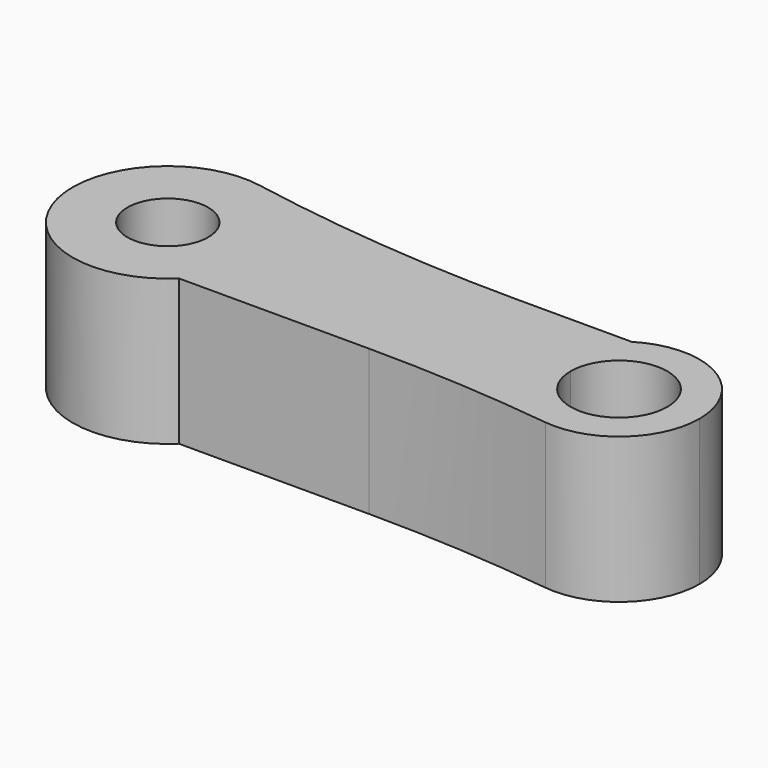
from build123d import *

# Parameters (mm, degrees)
F0_R     = 25.444736
F1_DEPTH = 91.702167
F2_R     = 959.987855


with BuildPart() as f1:
    # F0 (on Top) → F1 (new body)
    with BuildSketch(Plane.XY):
        with BuildLine():
            ThreePointArc((41.567442, 43.200706), (55.16418, 23.474804), (59.951257, 0))
            Line((59.951257, 0), (233.576013, 0))
            ThreePointArc((233.576013, 0), (240.029875, 24.751712), (257.748065, 43.200706))
            Line((257.748065, 43.200706), (41.567442, 43.200706))
        make_face()
        with BuildLine():
            ThreePointArc((257.748065, 43.200706), (240.029875, 24.751712), (233.576013, 0))
            ThreePointArc((233.576013, 0), (240.029875, -24.751712), (257.748065, -43.200706))
            ThreePointArc((257.748065, -43.200706), (309.018274, -44.236686), (334.957109, 0))
            ThreePointArc((334.957109, 0), (309.018274, 44.236686), (257.748065, 43.200706))
        make_face()
        with BuildLine():
            ThreePointArc((314.711569, 0), (284.266561, -30.445007), (253.821554, 0))
            ThreePointArc((253.821554, 0), (284.266561, 30.445007), (314.711569, 0))
        make_face(mode=Mode.SUBTRACT)
        with BuildLine():
            Line((233.576013, 0), (59.951257, 0))
            ThreePointArc((59.951257, 0), (55.16418, -23.474804), (41.567442, -43.200706))
            Line((41.567442, -43.200706), (257.748065, -43.200706))
            ThreePointArc((257.748065, -43.200706), (240.029875, -24.751712), (233.576013, 0))
        make_face()
        with BuildLine():
            ThreePointArc((41.567442, -43.200706), (55.16418, -23.474804), (59.951257, 0))
            ThreePointArc((59.951257, 0), (55.16418, 23.474804), (41.567442, 43.200706))
            ThreePointArc((41.567442, 43.200706), (-59.951257, 0), (41.567442, -43.200706))
        make_face()
        Circle(F0_R, mode=Mode.SUBTRACT)
    extrude(amount=F1_DEPTH)

    # F2
    f2_edges = [f1.edges().sort_by_distance(p)[0] for p in [
        (257.748065, -43.200706, 45.851083),
        (41.567442, 43.200706, 45.851083),
    ]]
    fillet(f2_edges, radius=F2_R)


solid = f1.part
